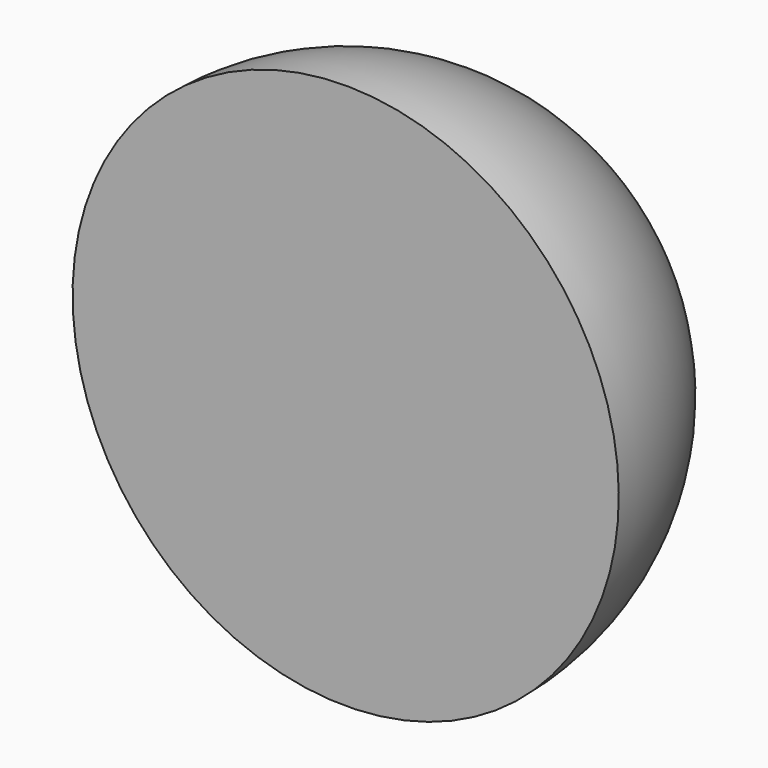
from build123d import *

# Parameters (mm, degrees)
BOX155_W           = 10
BOX155_H           = 10
BOX155_DEPTH       = 10
CUT074_ROLL_ANGLE  = -90
CUT074_PITCH_ANGLE = -32


with BuildPart() as cube010:
    # Box155 → Box155 (new body)
    with BuildSketch(Plane(origin=(-5, -5, -10), x_dir=(1, 0, 0), z_dir=(0, 0, 1))):
        with Locations((5, 5)):
            Rectangle(BOX155_W, BOX155_H)
    extrude(amount=BOX155_DEPTH)


with BuildPart() as sapphire_half_ball_lens010:
    # Sphere010 → Sphere010 (revolve)
    with BuildSketch(Plane.XZ):
        with BuildLine():
            ThreePointArc((0, -2), (2, 0), (0, 2))
            Line((0, 2), (0, -2))
        make_face()
    revolve(axis=Axis((0, 0, 0), (0, 0, 1)))

    # Cut074: cut Cube010
    add(cube010.part, mode=Mode.SUBTRACT)


with BuildPart() as sapphire_half_ball_lens010_1:
    # Cut074 roll: moved
    add(sapphire_half_ball_lens010.part.rotate(Axis((0, 0, 0), (1, 0, 0)), CUT074_ROLL_ANGLE))


with BuildPart() as sapphire_half_ball_lens010_2:
    # Cut074 pitch: moved
    add(sapphire_half_ball_lens010_1.part.rotate(Axis((0, 0, 0), (0, 1, 0)), CUT074_PITCH_ANGLE))


with BuildPart() as sapphire_half_ball_lens010_3:
    # Cut074 placement: moved
    add(sapphire_half_ball_lens010_2.part.moved(Location((-6.15, 3.89, 36.2))))


solid = sapphire_half_ball_lens010_3.part
